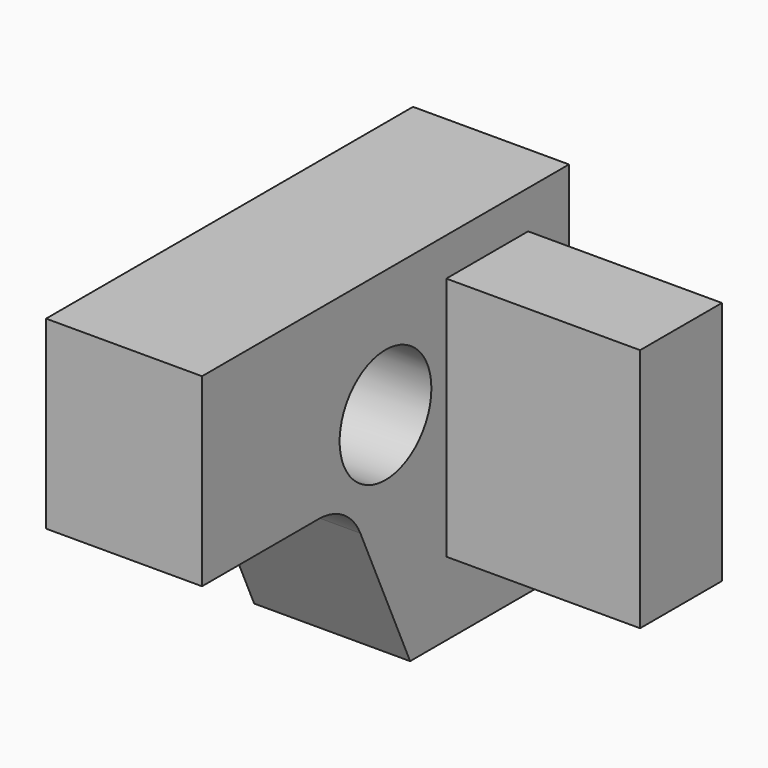
from build123d import *

# Parameters (mm, degrees)
F0_R     = 25.4
F1_DEPTH = 69.088
F2_W     = 45.309711
F2_H     = 108.461212
F3_DEPTH = 85.852


with BuildPart() as f1:
    # F0 (on Right) → F1 (new body)
    with BuildSketch(Plane.YZ):
        with BuildLine():
            Line((-135.26546, -11.494508), (-70.738474, -11.494508))
            ThreePointArc((-70.738474, -11.494508), (-56.956218, -15.558871), (-47.584677, -26.451248))
            Line((-47.584677, -26.451248), (-20.028634, -87.545872))
            Line((-20.028634, -87.545872), (67.93454, -87.545872))
            Line((67.93454, -87.545872), (67.93454, 70.430818))
            Line((67.93454, 70.430818), (-135.26546, 70.430818))
            Line((-135.26546, 70.430818), (-135.26546, -11.494508))
        make_face()
        with Locations((-33.66546, 14.054128)):
            Circle(F0_R, mode=Mode.SUBTRACT)
    extrude(amount=F1_DEPTH)


with BuildPart() as f3:
    # F2 (on face) → F3 (new body)
    with BuildSketch(Plane.YZ.offset(69.088)):
        with Locations((22.654856, -0.703642)):
            Rectangle(F2_W, F2_H)
    extrude(amount=F3_DEPTH)


solid = Compound([f1.part, f3.part])
